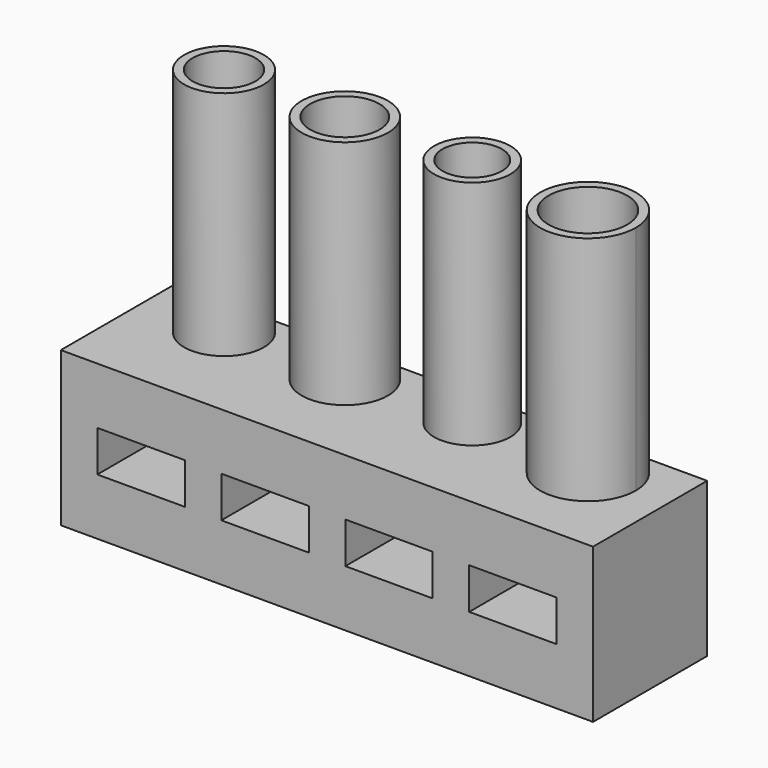
from build123d import *

# Parameters (mm, degrees)
F0_W      = 175.26
F0_H      = 50.8
F0_W_2    = 28.829
F0_H_2    = 13.5255
F0_W_3    = 28.7655
F1_DEPTH  = 46.99
F2_R      = 12.954
F3_DEPTH  = 76.2
F4_DEPTH  = 25.4
F5_R      = 12.573
F5_R_2    = 9.779
F6_DEPTH  = 76.2
F7_DEPTH  = 25.4
F8_R      = 11.43
F9_DEPTH  = 76.2
F10_DEPTH = 25.4
F11_R     = 13.1445
F11_R_2   = 10.3505
F12_DEPTH = 76.2
F13_DEPTH = 25.4


with BuildPart() as f1:
    # F0 (on Front) → F1 (new body)
    with BuildSketch(Plane.XZ):
        Rectangle(F0_W, F0_H)
        with Locations((-61.2013, 0)):
            Rectangle(F0_W_2, F0_H_2, mode=Mode.SUBTRACT)
        with Locations((-20.3581, 0)):
            Rectangle(F0_W_2, F0_H_2, mode=Mode.SUBTRACT)
        with Locations((20.45335, 0)):
            Rectangle(F0_W_3, F0_H_2, mode=Mode.SUBTRACT)
        with Locations((61.23305, 0)):
            Rectangle(F0_W_3, F0_H_2, mode=Mode.SUBTRACT)
    extrude(amount=F1_DEPTH)

    # F2 (on face) → F3 (join)
    with BuildSketch(Plane.XY.offset(25.4)):
        with BuildLine():
            ThreePointArc((60.96, 0), (49.8244824099, -26.8835175901), (76.708, -15.748))
            ThreePointArc((76.708, -15.748), (72.0955175901, -4.6124824099), (60.96, 0))
        make_face()
        with Locations((60.96, -15.748)):
            Circle(F2_R, mode=Mode.SUBTRACT)
    extrude(amount=F3_DEPTH)

    # F4 (cut): a face of the model
    f4_faces = [f1.faces().sort_by_distance(p)[0] for p in [
        (60.96, -15.748, 25.4),
    ]]
    extrude(f4_faces, amount=-F4_DEPTH, mode=Mode.SUBTRACT)

    # F5 (on face) → F6 (join)
    with BuildSketch(Plane.XY.offset(25.4)):
        with Locations((20.32, -12.573)):
            Circle(F5_R)
        with Locations((20.32, -12.573)):
            Circle(F5_R_2, mode=Mode.SUBTRACT)
    extrude(amount=F6_DEPTH)

    # F7 (cut): a face of the model
    f7_faces = [f1.faces().sort_by_distance(p)[0] for p in [
        (20.32, -12.573, 25.4),
    ]]
    extrude(f7_faces, amount=-F7_DEPTH, mode=Mode.SUBTRACT)

    # F8 (on face) → F9 (join)
    with BuildSketch(Plane.XY.offset(25.4)):
        with BuildLine():
            ThreePointArc((-20.319999941, 0), (-30.3778868765, -24.2818868347), (-6.096, -14.224))
            ThreePointArc((-6.096, -14.224), (-10.2621131235, -4.1661131653), (-20.319999941, 0))
        make_face()
        with Locations((-20.32, -14.224)):
            Circle(F8_R, mode=Mode.SUBTRACT)
    extrude(amount=F9_DEPTH)

    # F10 (cut): a face of the model
    f10_faces = [f1.faces().sort_by_distance(p)[0] for p in [
        (-20.32, -14.224, 25.4),
    ]]
    extrude(f10_faces, amount=-F10_DEPTH, mode=Mode.SUBTRACT)

    # F11 (on face) → F12 (join)
    with BuildSketch(Plane.XY.offset(25.4)):
        with Locations((-60.96, -13.1445)):
            Circle(F11_R)
        with Locations((-60.96, -13.1445)):
            Circle(F11_R_2, mode=Mode.SUBTRACT)
    extrude(amount=F12_DEPTH)

    # F13 (cut): a face of the model
    f13_faces = [f1.faces().sort_by_distance(p)[0] for p in [
        (-60.96, -13.1445, 25.4),
    ]]
    extrude(f13_faces, amount=-F13_DEPTH, mode=Mode.SUBTRACT)


solid = f1.part
